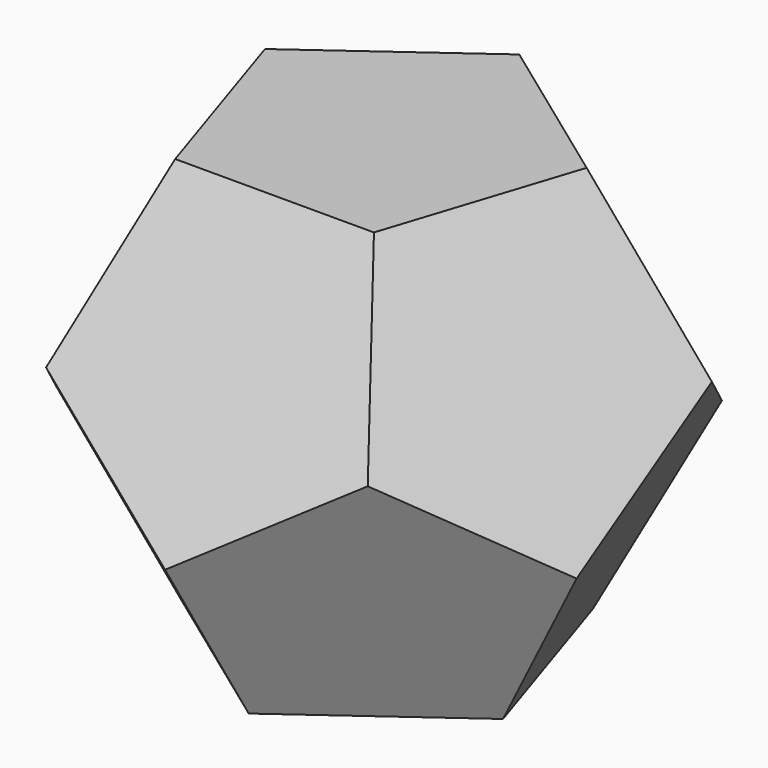
from build123d import *

# Parameters (mm, degrees)
F1_DEPTH  = 30.6234291007
F13_DEPTH = 50
F14_DEPTH = 500
F15_DEPTH = 500
F16_DEPTH = 500
F17_DEPTH = 500
F24_DEPTH = 500
F25_DEPTH = 500
F26_DEPTH = 500
F27_DEPTH = 500
F28_DEPTH = 500


with BuildPart() as f1:
    # F0 (on Top) → F1 (new body, symmetric)
    with BuildSketch(Plane.XY):
        Polygon((-36, 11.6971090644), (-36, -11.6971090644), (-22.249223595, -30.6234291007), (0, -37.8526400726), (22.249223595, -30.6234291007), (36, -11.6971090644), (36, 11.6971090644), (22.249223595, 30.6234291007), (0, 37.8526400726), (-22.249223595, 30.6234291007), align=None)
    extrude(amount=F1_DEPTH, both=True)

    # F3 (on Right) → F13 (cut, symmetric)
    with BuildSketch(Plane.YZ):
        Polygon((-37.8526400726, -7.2292109719), (-18.9263200363, 30.6234291007), (-37.8526400726, 30.6234291007), align=None)
    extrude(amount=F13_DEPTH, both=True, mode=Mode.SUBTRACT)

    # F6 (on face) → F14 (cut, symmetric)
    with BuildSketch(Plane(origin=(0, 0, 0), x_dir=(-0.9510565163, 0.3090169944, 0), z_dir=(0.3090169944, 0.9510565163, 0))):
        Polygon((-37.8526400726, -7.2292109719), (-18.9263200363, 30.6234291007), (-37.8526400726, 30.6234291007), align=None)
    extrude(amount=F14_DEPTH, both=True, mode=Mode.SUBTRACT)

    # F8 (on face) → F15 (cut, symmetric)
    with BuildSketch(Plane(origin=(0, 0, 0), x_dir=(0.5877852523, 0.8090169944, 0), z_dir=(0.8090169944, -0.5877852523, 0))):
        Polygon((37.8526400726, -7.2292109719), (37.8526400726, 30.6234291007), (18.9263200363, 30.6234291007), align=None)
    extrude(amount=F15_DEPTH, both=True, mode=Mode.SUBTRACT)

    # F10 (on face) → F16 (cut, symmetric)
    with BuildSketch(Plane(origin=(0, 0, 0), x_dir=(0.5877852523, -0.8090169944, 0), z_dir=(-0.8090169944, -0.5877852523, 0))):
        Polygon((-18.9263200363, 30.6234291007), (-37.8526400726, 30.6234291007), (-37.8526400726, -7.2292109719), align=None)
    extrude(amount=F16_DEPTH, both=True, mode=Mode.SUBTRACT)

    # F12 (on face) → F17 (cut, symmetric)
    with BuildSketch(Plane(origin=(0, 0, 0), x_dir=(-0.9510565163, -0.3090169944, 0), z_dir=(-0.3090169944, 0.9510565163, 0))):
        Polygon((37.8526400726, 26.069773404), (37.8526400726, 30.6234291007), (18.9263200363, 30.6234291007), (37.8526400726, -7.2292109719), align=None)
    extrude(amount=F17_DEPTH, both=True, mode=Mode.SUBTRACT)

    # F19 (on Right) → F24 (cut, symmetric)
    with BuildSketch(Plane.YZ):
        Polygon((37.8526400726, 7.2292109719), (18.9263200363, -30.6234291007), (37.8526400726, -30.6234291007), align=None)
    extrude(amount=F24_DEPTH, both=True, mode=Mode.SUBTRACT)

    # F20 (on face) → F25 (cut, symmetric)
    with BuildSketch(Plane(origin=(0, 0, 0), x_dir=(-0.9510565163, -0.3090169944, 0), z_dir=(-0.3090169944, 0.9510565163, 0))):
        Polygon((-37.8526400726, -30.6234291007), (-18.9263200363, -30.6234291007), (-37.8526400726, 7.2292109719), align=None)
    extrude(amount=F25_DEPTH, both=True, mode=Mode.SUBTRACT)

    # F21 (on face) → F26 (cut, symmetric)
    with BuildSketch(Plane(origin=(0, 0, 0), x_dir=(0.5877852523, -0.8090169944, 0), z_dir=(-0.8090169944, -0.5877852523, 0))):
        Polygon((37.8526400726, 7.2292109719), (18.9263200363, -30.6234291007), (37.8526400726, -30.6234291007), align=None)
    extrude(amount=F26_DEPTH, both=True, mode=Mode.SUBTRACT)

    # F22 (on face) → F27 (cut, symmetric)
    with BuildSketch(Plane(origin=(0, 0, 0), x_dir=(0.5877852523, 0.8090169944, 0), z_dir=(0.8090169944, -0.5877852523, 0))):
        Polygon((-37.8526400726, -30.6234291007), (-18.9263200363, -30.6234291007), (-37.8526400726, 7.2292109719), align=None)
    extrude(amount=F27_DEPTH, both=True, mode=Mode.SUBTRACT)

    # F23 (on face) → F28 (cut, symmetric)
    with BuildSketch(Plane(origin=(0, 0, 0), x_dir=(-0.9510565163, 0.3090169944, 0), z_dir=(0.3090169944, 0.9510565163, 0))):
        Polygon((37.8526400726, 7.2292109719), (18.9263200363, -30.6234291007), (37.8526400726, -30.6234291007), align=None)
    extrude(amount=F28_DEPTH, both=True, mode=Mode.SUBTRACT)


solid = f1.part
